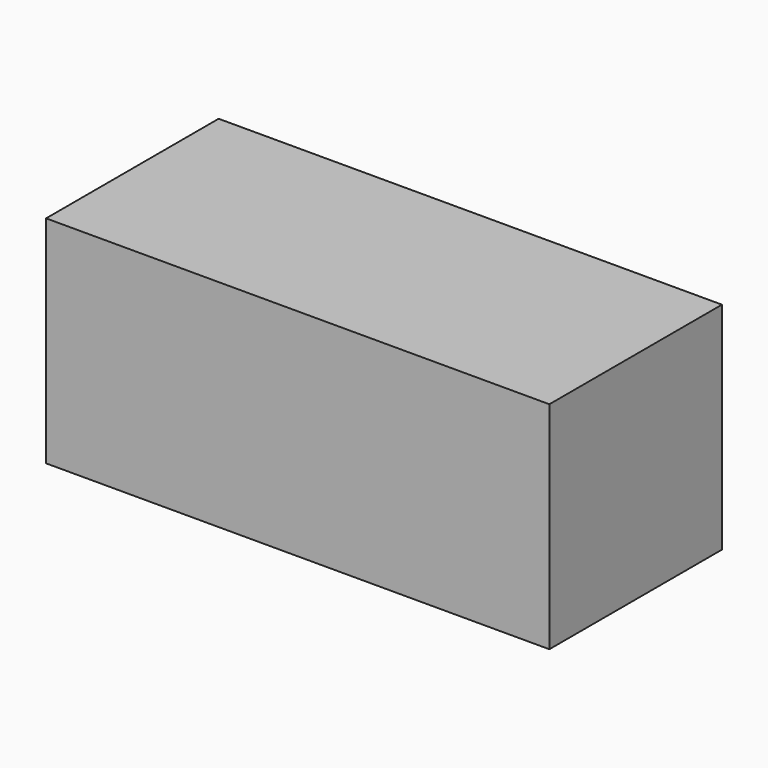
from build123d import *

# Parameters (mm, degrees)
F0_W     = 2133.6
F0_H     = 609.6
F1_DEPTH = 914.4
F0_H_2   = 152.4
F2_DEPTH = 914.4


with BuildPart() as f1:
    # F0 (on Top) → F1 (new body)
    with BuildSketch(Plane.XY):
        Rectangle(F0_W, F0_H)
    extrude(amount=F1_DEPTH)


with BuildPart() as f2:
    # F0 (on Top) → F2 (new body)
    with BuildSketch(Plane.XY):
        with Locations((0, 381)):
            Rectangle(F0_W, F0_H_2)
        Rectangle(F0_W, F0_H)
        with Locations((0, -381)):
            Rectangle(F0_W, F0_H_2)
    extrude(amount=F2_DEPTH)


solid = Compound([f1.part, f2.part])
